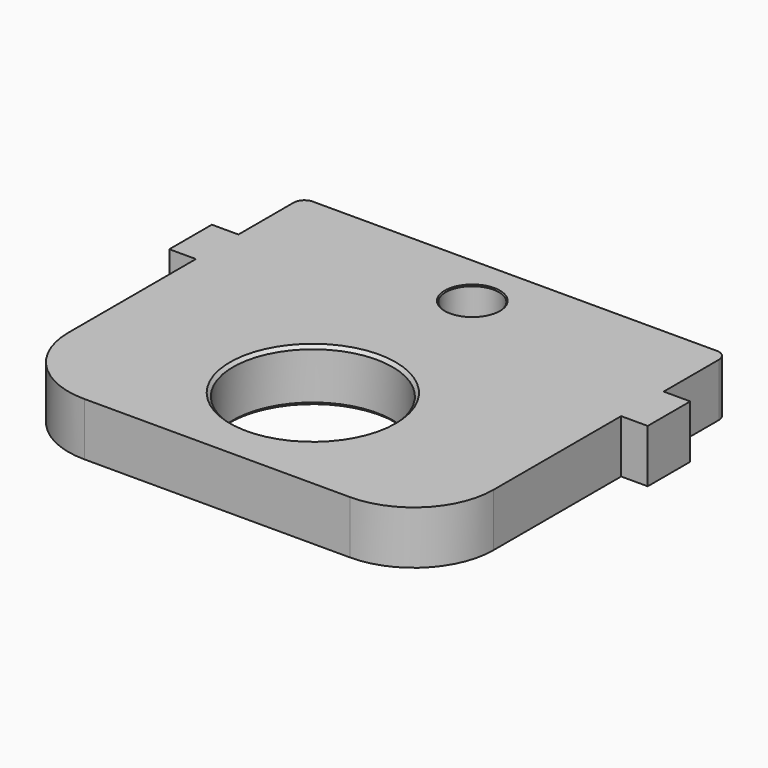
from build123d import *

# Parameters (mm, degrees)
F0_W     = 203.2
F0_H     = 177.8
F0_R     = 38.1
F0_R_2   = 12.7
F1_DEPTH = 12.7
F2_SIZE  = 0.508
F3_SIZE  = 1.524
F4_R     = 38.1
F5_R     = 5.08
F6_W     = 12.7
F6_H     = 25.4
F7_DEPTH = 25.4


with BuildPart() as f1:
    # F0 (on Top) → F1 (new body, symmetric)
    with BuildSketch(Plane.XY):
        Rectangle(F0_W, F0_H)
        with Locations((0, -31.75)):
            Circle(F0_R, mode=Mode.SUBTRACT)
        with Locations((0, 63.5)):
            Circle(F0_R_2, mode=Mode.SUBTRACT)
    extrude(amount=F1_DEPTH, both=True)

    # F2
    f2_edges = [f1.edges().sort_by_distance(p)[0] for p in [
        (-12.7, 63.5, 12.7),
        (-12.7, 63.5, -12.7),
    ]]
    chamfer(f2_edges, length=F2_SIZE)

    # F3
    f3_edges = [f1.edges().sort_by_distance(p)[0] for p in [
        (-38.1, -31.75, 12.7),
        (-38.1, -31.75, -12.7),
    ]]
    chamfer(f3_edges, length=F3_SIZE)

    # F4
    f4_edges = [f1.edges().sort_by_distance(p)[0] for p in [
        (-101.6, -88.9, 0),
        (101.6, -88.9, 0),
    ]]
    fillet(f4_edges, radius=F4_R)

    # F5
    f5_edges = [f1.edges().sort_by_distance(p)[0] for p in [
        (101.6, 88.9, 0),
        (-101.6, 88.9, 0),
    ]]
    fillet(f5_edges, radius=F5_R)

    # F6 (on face) → F7 (join)
    with BuildSketch(Plane.XY.offset(12.7)):
        with Locations((-107.95, 38.1)):
            Rectangle(F6_W, F6_H)
        with Locations((107.95, 38.1)):
            Rectangle(F6_W, F6_H)
    extrude(amount=-F7_DEPTH)


solid = f1.part
